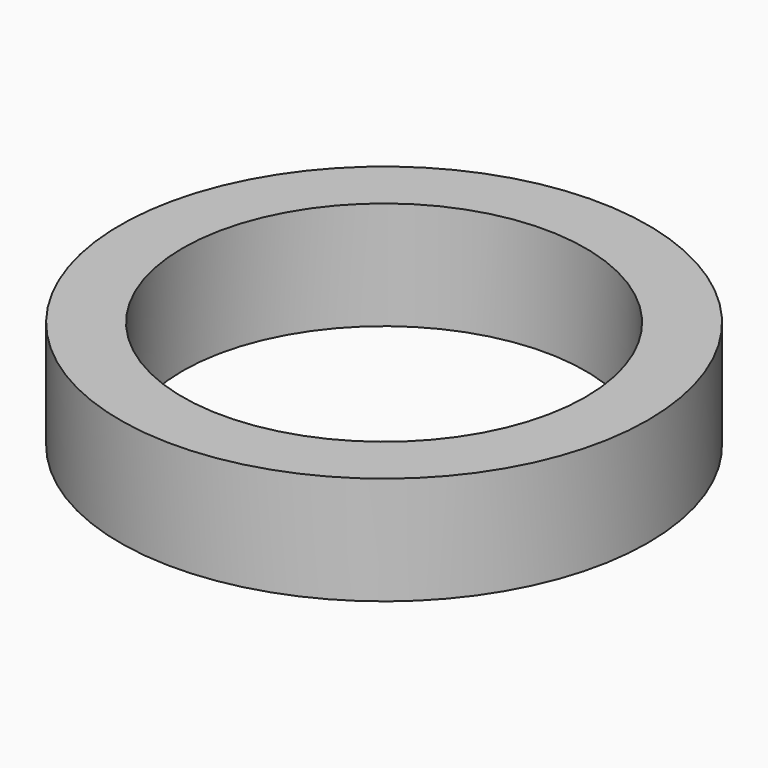
from build123d import *

# Parameters (mm, degrees)
F1_R     = 12.05
F1_R_2   = 9.2
F2_DEPTH = 4.932


with BuildPart() as f2:
    # F1 (on face) → F2 (new body)
    with BuildSketch(Plane.XY):
        Circle(F1_R)
        Circle(F1_R_2, mode=Mode.SUBTRACT)
    extrude(amount=F2_DEPTH)


solid = f2.part
